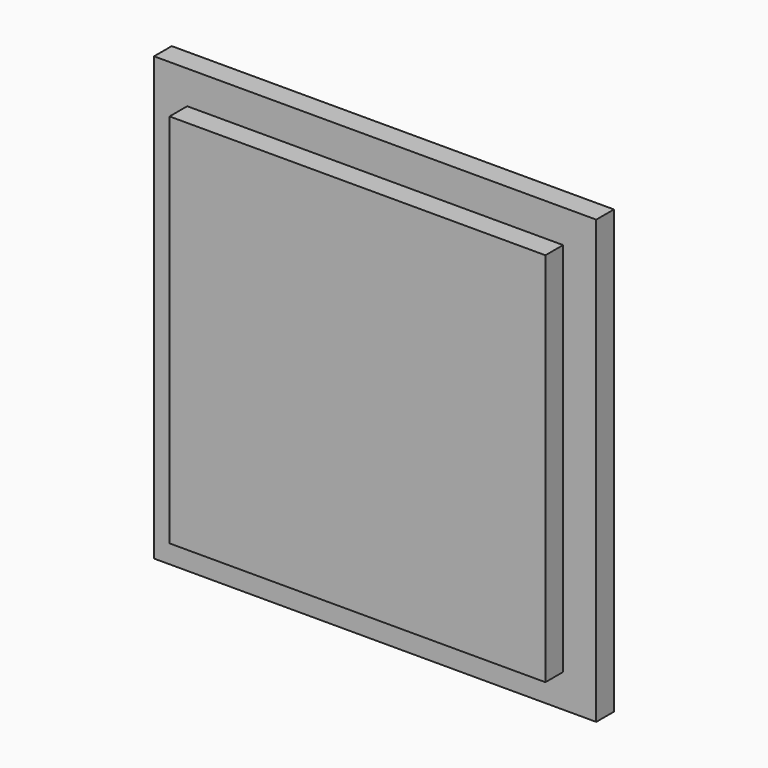
from build123d import *

# Parameters (mm, degrees)
F0_W     = 34
F0_H     = 34
F1_DEPTH = 4
F2_W     = 40
F2_H     = 40
F3_DEPTH = 2


with BuildPart() as f1:
    # F0 (on Front) → F1 (new body)
    with BuildSketch(Plane.XZ):
        Rectangle(F0_W, F0_H)
    extrude(amount=F1_DEPTH)

    # F2 (on Front) → F3 (join)
    with BuildSketch(Plane.XZ):
        Rectangle(F2_W, F2_H)
    extrude(amount=F3_DEPTH)


solid = f1.part
